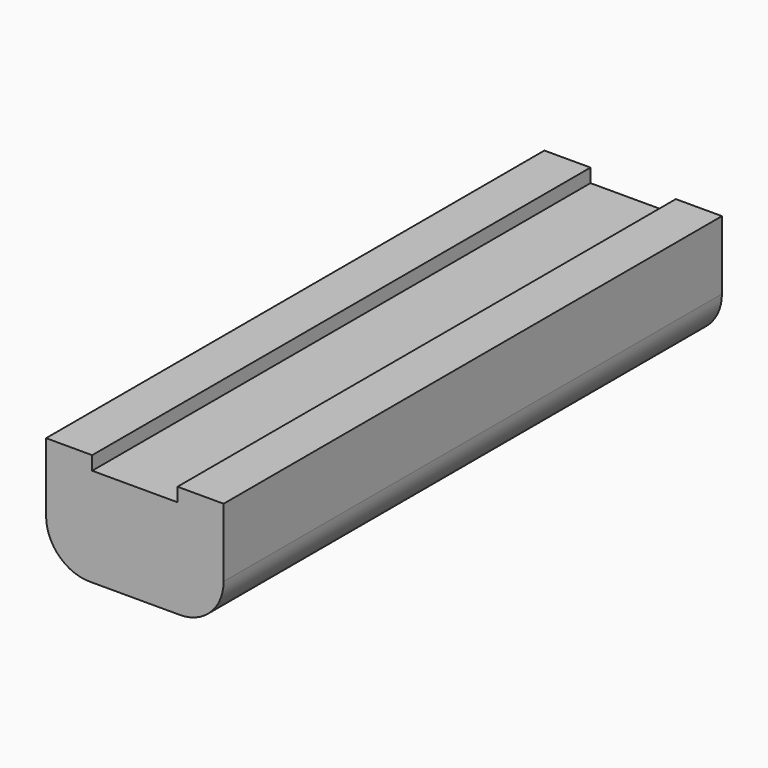
from build123d import *

# Parameters (mm, degrees)
F1_DEPTH = 100


with BuildPart() as f1:
    # F0 (on Front) → F1 (new body)
    with BuildSketch(Plane.XZ):
        with BuildLine():
            Line((7.4, 0), (0, 0))
            Line((0, 0), (0, -11))
            ThreePointArc((0, -11), (2.050253, -15.949747), (7, -18))
            Line((7, -18), (21.5, -18))
            ThreePointArc((21.5, -18), (26.449747, -15.949747), (28.5, -11))
            Line((28.5, -11), (28.5, 0))
            Line((28.5, 0), (21.1, 0))
            Line((21.1, 0), (21.1, -2.2))
            Line((21.1, -2.2), (7.4, -2.2))
            Line((7.4, -2.2), (7.4, 0))
        make_face()
    extrude(amount=-F1_DEPTH)


solid = f1.part
